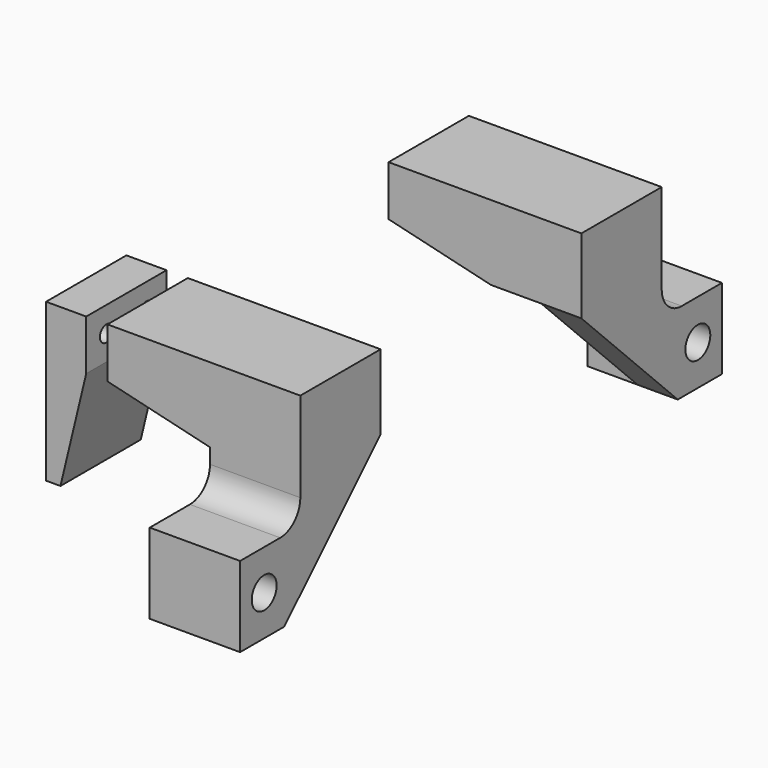
from build123d import *

# Parameters (mm, degrees)
F0_W      = 18
F0_H      = 24
F1_DEPTH  = 20
F2_R      = 1.3
F3_DEPTH  = 15
F4_R      = 1.6
F5_DEPTH  = 10
F6_W      = 18
F6_H      = 16
F7_DEPTH  = 15
F8_R      = 3.1
F9_DEPTH  = 50.6556891443
F10_SIZE  = 24
F12_DEPTH = 10
F13_R     = 5


with BuildPart() as f1:
    # F0 (on Front) → F1 (new body)
    with BuildSketch(Plane.XZ):
        with Locations((85.0597769022, 0)):
            Rectangle(F0_W, F0_H)
        Polygon((76.0597769022, 12), (94.0597769022, 12), (94.0597769022, 26.902352641), (55.6400085738, 26.902352641), (55.6400085738, 16.902352641), align=None)
    extrude(amount=F1_DEPTH)

    # F2 (on face) → F3 (cut)
    with BuildSketch(Plane(origin=(55.6400085738, 0, 0), x_dir=(0, -1, 0), z_dir=(-1, 0, 0))):
        with Locations((15, 21.902352641)):
            Circle(F2_R)
        with Locations((5, 21.902352641)):
            Circle(F2_R)
    extrude(amount=-F3_DEPTH, mode=Mode.SUBTRACT)

    # F6 (on face) → F7 (join)
    with BuildSketch(Plane.XZ.offset(20)):
        with Locations((85.0597769022, -4)):
            Rectangle(F6_W, F6_H)
    extrude(amount=F7_DEPTH)

    # F8 (on face) → F9 (cut, through all)
    with BuildSketch(Plane.YZ.offset(94.0597769022)):
        with Locations((-29, -4)):
            Circle(F8_R)
    extrude(amount=-F9_DEPTH, mode=Mode.SUBTRACT)

    # F10
    f10_edges = [f1.edges().sort_by_distance(p)[0] for p in [
        (85.059777, 0, -12),
    ]]
    chamfer(f10_edges, length=F10_SIZE)

    # F11 (on face) → F12 (cut)
    with BuildSketch(Plane(origin=(76.0597769022, 0, 0), x_dir=(0, -1, 0), z_dir=(-1, 0, 0))):
        Polygon((10, 12), (0, 12), (24, -12), (24, -5), align=None)
    extrude(amount=-F12_DEPTH, mode=Mode.SUBTRACT)

    # F13
    f13_edges = [f1.edges().sort_by_distance(p)[0] for p in [
        (85.059777, -20, 4),
        (81.059777, -24, -5),
        (81.059777, -10, 12),
    ]]
    fillet(f13_edges, radius=F13_R)


with BuildPart() as f1b:
    # F0 (on Front) → F1, piece 2 (new body)
    with BuildSketch(Plane.XZ):
        Polygon((51.4050877579, 16.902352641), (51.4050877579, 26.902352641), (43.4050877579, 26.902352641), (43.4050877579, -4.4897856078), (46.2692897531, -4.4897856078), align=None)
    extrude(amount=F1_DEPTH)

    # F4 (on face) → F5 (cut)
    with BuildSketch(Plane.YZ.offset(51.4050877579)):
        with Locations((-15, 21.902352641)):
            Circle(F4_R)
        with Locations((-5, 21.902352641)):
            Circle(F4_R)
    extrude(amount=-F5_DEPTH, mode=Mode.SUBTRACT)


with BuildPart() as f15_1:
    # F15: instance of F1
    add(f1.part.mirror(Plane(origin=(76.0380731249, 25, 20.0084246403), x_dir=(1, 0, 0), z_dir=(0, 1, 0))))


solid = Compound([f1.part, f1b.part, f15_1.part])
